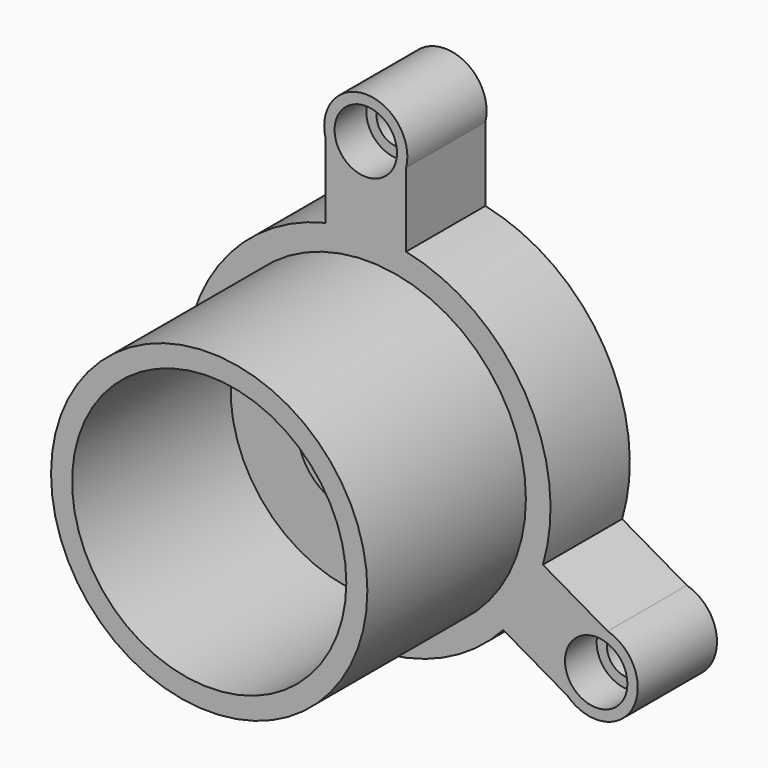
from build123d import *

# Parameters (mm, degrees)
F0_R     = 5.2865279156
F1_DEPTH = 25
F2_R     = 39.9170706603
F2_R_2   = 34.6011659379
F3_DEPTH = 75
F4_R     = 11.7194622097
F5_DEPTH = 25
F6_R     = 7.873360038
F6_R_2   = 5.2865279156
F7_DEPTH = 10
F8_R     = 13.6780275644
F8_R_2   = 11.7194622097
F9_DEPTH = 5


with BuildPart() as f1:
    # F0 (on Front) → F1 (new body)
    with BuildSketch(Plane.XZ):
        with BuildLine():
            Line((-10.6633168949, 63.7640005702), (-10.6633168949, 44.8946944847))
            ThreePointArc((-10.6633168949, 44.8946944847), (-40.2070284925, 22.6414394393), (-43.917693949, -14.1589575281))
            Line((-43.917693949, -14.1589575281), (-60.0696593727, -23.4842991134))
            ThreePointArc((-60.0696593727, -23.4842991134), (-66.2598598239, -38.8131493377), (-49.8895858933, -41.1167036046))
            Line((-49.8895858933, -41.1167036046), (-33.5482874715, -31.6820505619))
            ThreePointArc((-33.5482874715, -31.6820505619), (0.4954525136, -46.1410278048), (34.2208638849, -30.9543598714))
            Line((34.2208638849, -30.9543598714), (50.3728293087, -40.2797014568))
            ThreePointArc((50.3728293087, -40.2797014568), (66.7431032393, -37.9761471898), (60.5529027881, -22.6472969656))
            Line((60.5529027881, -22.6472969656), (44.2116043663, -13.2126439228))
            ThreePointArc((44.2116043663, -13.2126439228), (39.7115759789, 23.4995883656), (9.6968300641, 45.1133173995))
            Line((9.6968300641, 45.1133173995), (9.6968300641, 63.7640005702))
            ThreePointArc((9.6968300641, 63.7640005702), (-0.4832434154, 76.7892965276), (-10.6633168949, 63.7640005702))
        make_face()
        with Locations((-57.1745378733, -33.5677362638)):
            Circle(F0_R, mode=Mode.SUBTRACT)
        with Locations((57.6577812887, -32.730734116)):
            Circle(F0_R, mode=Mode.SUBTRACT)
        with Locations((-0.4832434154, 66.2984703798)):
            Circle(F0_R, mode=Mode.SUBTRACT)
    extrude(amount=F1_DEPTH)

    # F2 (on Front) → F3 (join)
    with BuildSketch(Plane.XZ):
        Circle(F2_R)
        Circle(F2_R_2, mode=Mode.SUBTRACT)
    extrude(amount=F3_DEPTH)

    # F4 (on Front) → F5 (cut)
    with BuildSketch(Plane.XZ):
        Circle(F4_R)
    extrude(amount=F5_DEPTH, mode=Mode.SUBTRACT)

    # F6 (on face) → F7 (cut)
    with BuildSketch(Plane.XZ.offset(25)):
        with Locations((-0.4832434154, 66.2984703798)):
            Circle(F6_R)
        with Locations((-0.4832434154, 66.2984703798)):
            Circle(F6_R_2, mode=Mode.SUBTRACT)
        with Locations((-57.1745378733, -33.5677362638)):
            Circle(F6_R)
        with Locations((-57.1745378733, -33.5677362638)):
            Circle(F6_R_2, mode=Mode.SUBTRACT)
        with Locations((57.6577812887, -32.730734116)):
            Circle(F6_R)
        with Locations((57.6577812887, -32.730734116)):
            Circle(F6_R_2, mode=Mode.SUBTRACT)
    extrude(amount=-F7_DEPTH, mode=Mode.SUBTRACT)

    # F8 (on face) → F9 (join)
    with BuildSketch(Plane.XZ.offset(25)):
        Circle(F8_R)
        Circle(F8_R_2, mode=Mode.SUBTRACT)
    extrude(amount=F9_DEPTH)


solid = f1.part
